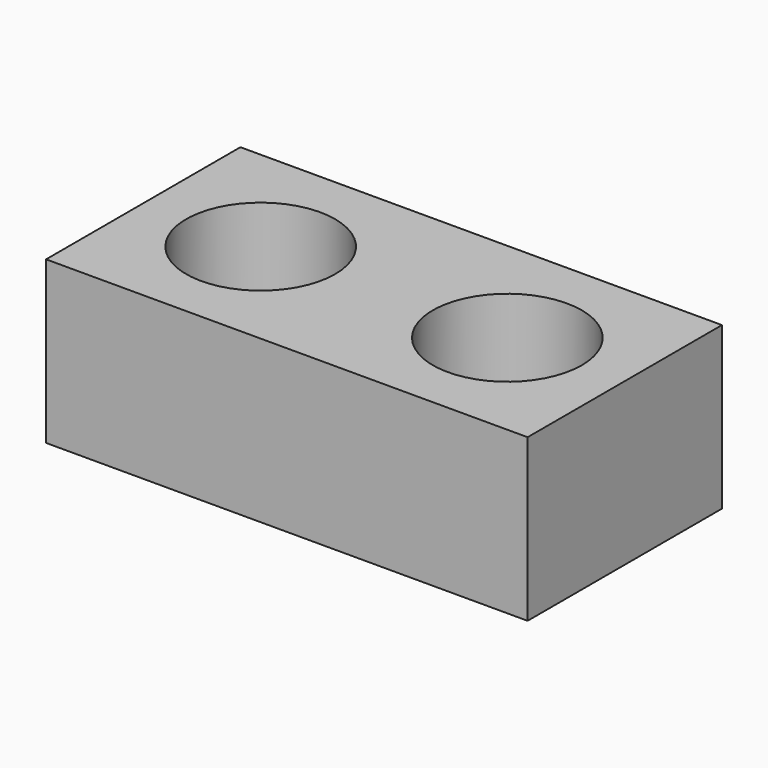
from build123d import *

# Parameters (mm, degrees)
F0_W     = 148.951292
F0_H     = 150.254234
F0_R     = 46.06604
F1_DEPTH = 100


with BuildPart() as f1:
    # F0 (on Top) → F1 (new body)
    with BuildSketch(Plane.XY):
        Rectangle(F0_W, F0_H)
        with Locations((1.823949, 0)):
            Circle(F0_R, mode=Mode.SUBTRACT)
        with Locations((-148.951292, 0)):
            Rectangle(F0_W, F0_H)
        with Locations((-150.775241, 0)):
            Circle(F0_R, mode=Mode.SUBTRACT)
    extrude(amount=F1_DEPTH)


solid = f1.part
